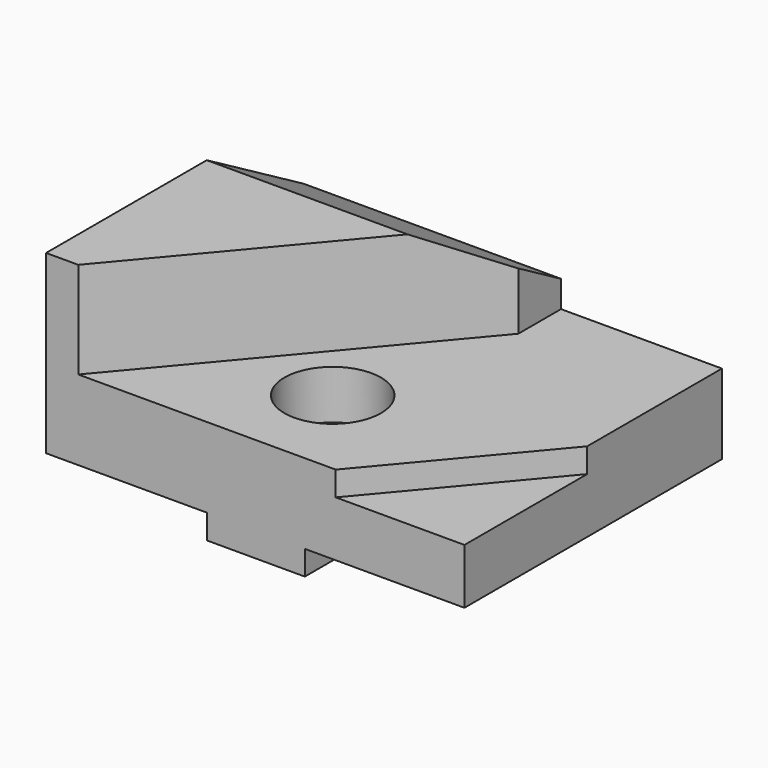
from build123d import *

# Parameters (mm, degrees)
F1_DEPTH       = 31.75
F3_DEPTH       = 19.05
F5_DEPTH       = 4.826
F7_DEPTH       = 52.4256
F9_D           = 12.7
F9_CBORE_D     = 19.05
F9_CBORE_DEPTH = 9.652


with BuildPart() as f1:
    # F0 (on Front) → F1 (new body, symmetric)
    with BuildSketch(Plane.XZ):
        Polygon((-22.139631, -8.012854), (-2.835631, -8.012854), (-2.835631, -3.186854), (28.660369, -3.186854), (28.660369, 12.561146), (-3.089631, 12.561146), (-3.089631, 31.611146), (-53.889631, 31.611146), (-53.889631, -3.186854), (-22.139631, -3.186854), align=None)
    extrude(amount=F1_DEPTH, both=True)

    # F2 (on face) → F3 (cut)
    with BuildSketch(Plane.XY.offset(31.611146)):
        Polygon((-3.089631, 21.223447), (-47.539631, -31.75), (-3.089631, -31.75), align=None)
    extrude(amount=-F3_DEPTH, mode=Mode.SUBTRACT)

    # F4 (on face) → F5 (cut)
    with BuildSketch(Plane.XY.offset(12.561146)):
        Polygon((3.260369, -31.75), (28.660369, -31.75), (28.660369, -1.479459), align=None)
    extrude(amount=-F5_DEPTH, mode=Mode.SUBTRACT)

    # F6 (on face) → F7 (cut)
    with BuildSketch(Plane(origin=(-53.889631, 0, 0), x_dir=(0, -1, 0), z_dir=(-1, 0, 0))):
        Polygon((-31.75, 17.826331), (-7.874, 31.611146), (-31.75, 31.611146), align=None)
    extrude(amount=-F7_DEPTH, mode=Mode.SUBTRACT)

    # F9 (through all)
    with Locations(Plane.XY.offset(12.561146)):
        with Locations((-12.574879, -12.7)):
            CounterBoreHole(F9_D / 2, F9_CBORE_D / 2, F9_CBORE_DEPTH)


solid = f1.part
